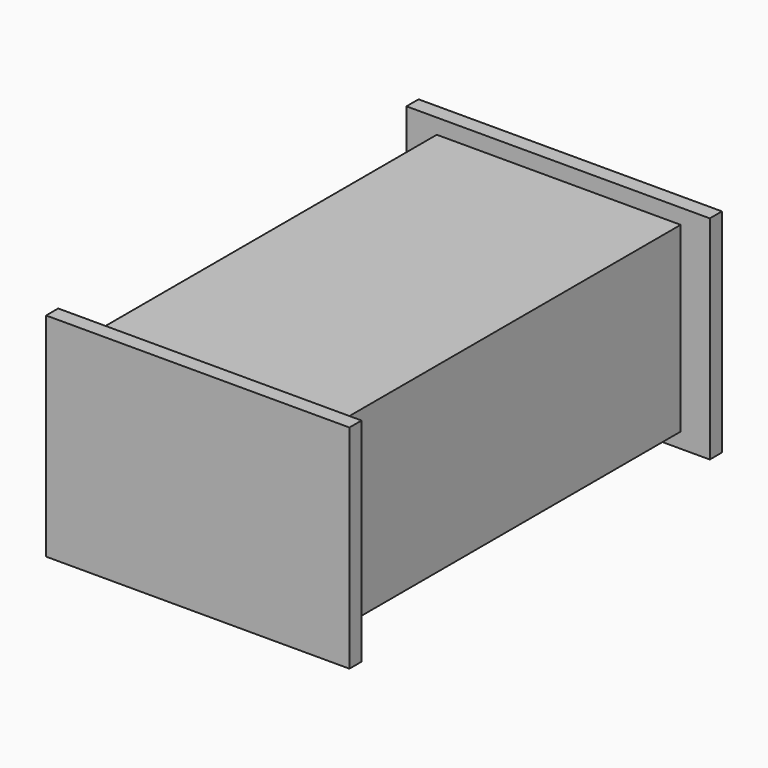
from build123d import *

# Parameters (mm, degrees)
SKETCH001_W  = 8.04
SKETCH001_H  = 14.4
PAD001_DEPTH = 3
SKETCH002_W  = 10
SKETCH002_H  = 7
PAD002_DEPTH = 0.5
SKETCH003_W  = 10
SKETCH003_H  = 7
PAD003_DEPTH = 0.5


with BuildPart() as part:
    # Sketch001 → Pad001 (new body, symmetric)
    with BuildSketch(Plane.XY):
        Rectangle(SKETCH001_W, SKETCH001_H)
    extrude(amount=PAD001_DEPTH, both=True)

    # Sketch002 (on Face3 of Pad001) → Pad002 (join)
    with BuildSketch(Plane.XZ.offset(7.2)):
        with Locations((0.02, 0)):
            Rectangle(SKETCH002_W, SKETCH002_H)
    extrude(amount=PAD002_DEPTH)

    # Sketch003 (on Face11 of Pad002) → Pad003 (join)
    with BuildSketch(Plane(origin=(0, 7.2, 0), x_dir=(-1, 0, 0), z_dir=(0, 1, 0))):
        with Locations((0.02, 0)):
            Rectangle(SKETCH003_W, SKETCH003_H)
    extrude(amount=PAD003_DEPTH)


with BuildPart() as part_1:
    # Body001 placement: moved
    add(part.part.moved(Location((3.5, -13, 0))))


solid = part_1.part
